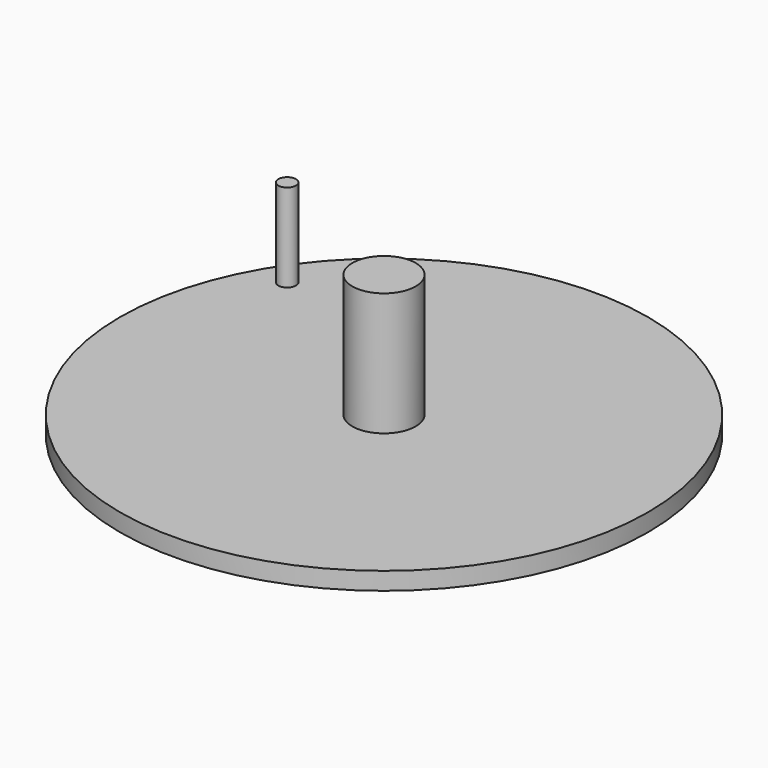
from build123d import *

# Parameters (mm, degrees)
F0_R     = 9
F1_DEPTH = 40
F2_R     = 75
F3_DEPTH = 5
F4_R     = 2.5
F5_DEPTH = 25


with BuildPart() as f1:
    # F0 (on Top) → F1 (new body)
    with BuildSketch(Plane.XY):
        Circle(F0_R)
    extrude(amount=F1_DEPTH)

    # F2 (on Top) → F3 (join)
    with BuildSketch(Plane.XY):
        Circle(F2_R)
    extrude(amount=F3_DEPTH)

    # F4 (on face) → F5 (join)
    with BuildSketch(Plane.XY.offset(5)):
        with Locations((-56.467045, 36.209807)):
            Circle(F4_R)
    extrude(amount=F5_DEPTH)


solid = f1.part
